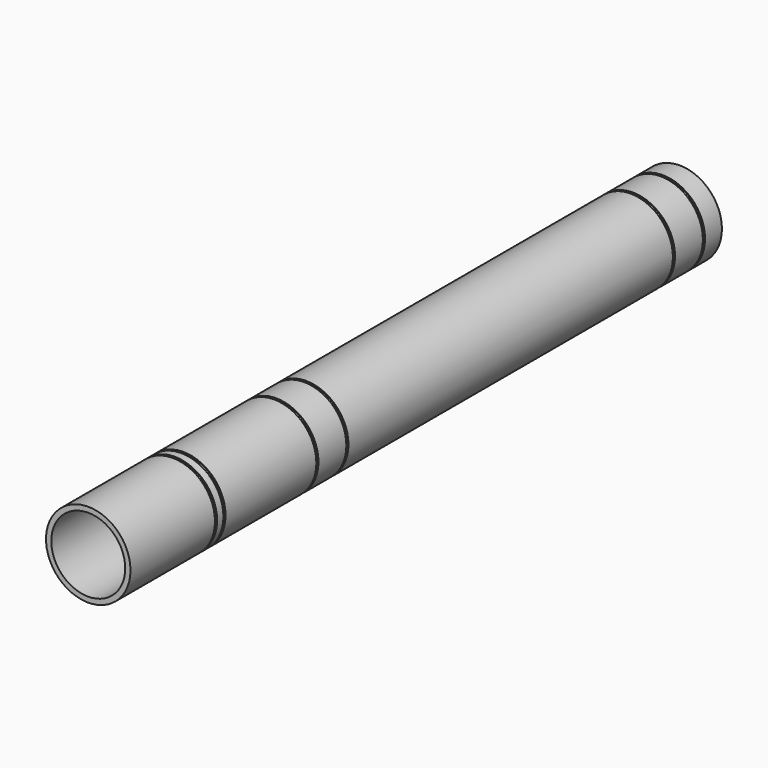
from build123d import *

# Parameters (mm, degrees)
F0_R      = 40
F0_R_2    = 35
F1_DEPTH  = 700
F3_R      = 44
F3_R_2    = 39.15
F4_DEPTH  = 2.5
F6_R      = 42.5
F6_R_2    = 39.15
F7_DEPTH  = 2.5
F10_R     = 42.5
F10_R_2   = 39.15
F11_DEPTH = 2.5
F13_R     = 42.5
F13_R_2   = 39.15
F14_DEPTH = 2.5
F16_R     = 44
F16_R_2   = 39.15
F17_DEPTH = 2.5
F19_R     = 44
F19_R_2   = 39.15
F20_DEPTH = 2.5


with BuildPart() as f1:
    # F0 (on Front) → F1 (new body)
    with BuildSketch(Plane.XZ):
        Circle(F0_R)
        Circle(F0_R_2, mode=Mode.SUBTRACT)
    extrude(amount=F1_DEPTH)

    # F3 (on offset) → F4 (cut)
    with BuildSketch(Plane.XZ.offset(20)):
        Circle(F3_R)
        Circle(F3_R_2, mode=Mode.SUBTRACT)
    extrude(amount=F4_DEPTH, mode=Mode.SUBTRACT)

    # F6 (on offset) → F7 (cut)
    with BuildSketch(Plane.XZ.offset(55.5)):
        Circle(F6_R)
        Circle(F6_R_2, mode=Mode.SUBTRACT)
    extrude(amount=F7_DEPTH, mode=Mode.SUBTRACT)

    # F10 (on offset) → F11 (cut)
    with BuildSketch(Plane.XZ.offset(480)):
        Circle(F10_R)
        Circle(F10_R_2, mode=Mode.SUBTRACT)
    extrude(amount=-F11_DEPTH, mode=Mode.SUBTRACT)

    # F13 (on offset) → F14 (cut)
    with BuildSketch(Plane.XZ.offset(444.5)):
        Circle(F13_R)
        Circle(F13_R_2, mode=Mode.SUBTRACT)
    extrude(amount=-F14_DEPTH, mode=Mode.SUBTRACT)

    # F16 (on offset) → F17 (cut)
    with BuildSketch(Plane.XZ.offset(590)):
        Circle(F16_R)
        Circle(F16_R_2, mode=Mode.SUBTRACT)
    extrude(amount=-F17_DEPTH, mode=Mode.SUBTRACT)

    # F19 (on offset) → F20 (cut)
    with BuildSketch(Plane.XZ.offset(600)):
        Circle(F19_R)
        Circle(F19_R_2, mode=Mode.SUBTRACT)
    extrude(amount=-F20_DEPTH, mode=Mode.SUBTRACT)


solid = f1.part
